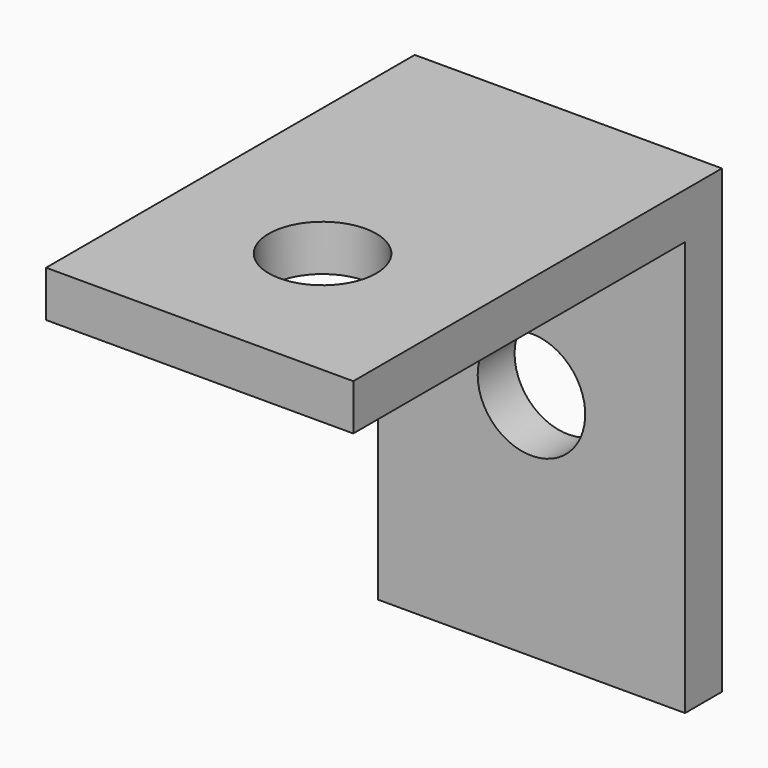
from build123d import *

# Parameters (mm, degrees)
F1_DEPTH = 10
F2_R     = 3.5
F3_DEPTH = 30.001
F4_R     = 3.5
F5_DEPTH = 30.001


with BuildPart() as f1:
    # F0 (on Right) → F1 (new body, symmetric)
    with BuildSketch(Plane.YZ):
        Polygon((0, 0), (-30, 0), (-30, -3), (-3, -3), (-3, -30), (0, -30), align=None)
    extrude(amount=F1_DEPTH, both=True)

    # F2 (on face) → F3 (cut, through all)
    with BuildSketch(Plane(origin=(0, 0, 0), x_dir=(-1, 0, 0), z_dir=(0, 1, 0))):
        with Locations((0, -15)):
            Circle(F2_R)
    extrude(amount=-F3_DEPTH, mode=Mode.SUBTRACT)

    # F4 (on face) → F5 (cut, through all)
    with BuildSketch(Plane.XY):
        with Locations((0, -20)):
            Circle(F4_R)
    extrude(amount=-F5_DEPTH, mode=Mode.SUBTRACT)


solid = f1.part
